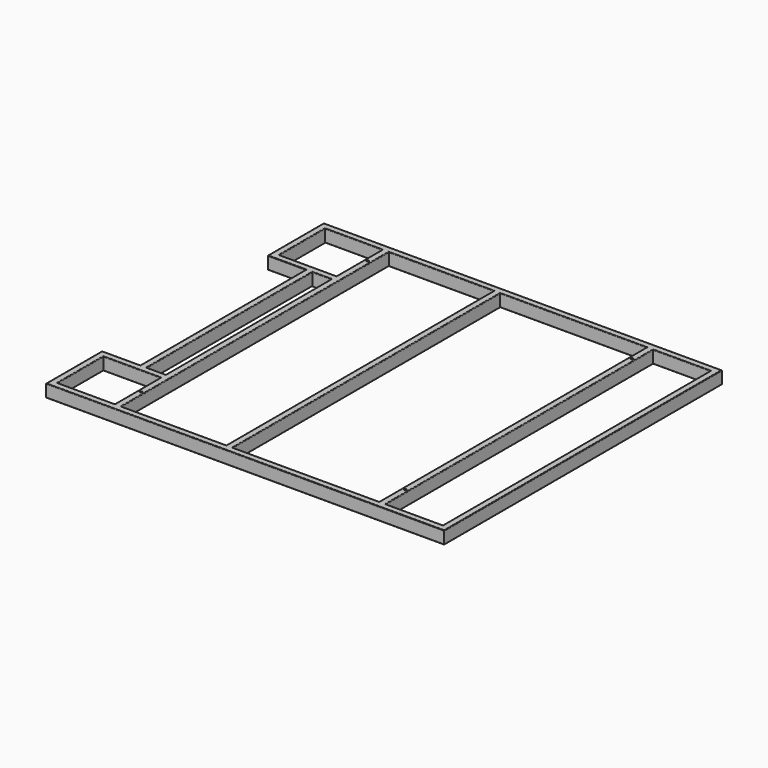
from build123d import *

# Parameters (mm, degrees)
F0_W     = 228.6
F0_H     = 228.6
F0_W_2   = 76.2
F0_H_2   = 825.5
F0_W_3   = 419.1
F0_H_3   = 1333.5
F0_W_4   = 584.2
F1_DEPTH = 25.4
F2_R     = 2.3622
F3_R     = 2.3622
F5_D     = 8.73125


with BuildPart() as f1:
    # F0 (on Top) → F1 (new body, symmetric)
    with BuildSketch(Plane.XY):
        Polygon((-927.9385305348, -419.3321948051), (-927.9385305348, -698.7321948051), (659.5614694652, -698.7321948051), (659.5614694652, 685.5678051949), (-927.9385305348, 685.5678051949), (-927.9385305348, 406.1678051949), (-775.5385305348, 406.1678051949), (-775.5385305348, -419.3321948051), align=None)
        with Locations((-788.2385305348, -559.0321948051)):
            Rectangle(F0_W, F0_H, mode=Mode.SUBTRACT)
        with Locations((-712.0385305348, -6.5821948051)):
            Rectangle(F0_W_2, F0_H_2, mode=Mode.SUBTRACT)
        with Locations((-438.9885305348, -6.5821948051)):
            Rectangle(F0_W_3, F0_H_3, mode=Mode.SUBTRACT)
        with Locations((-788.2385305348, 545.8678051949)):
            Rectangle(F0_W, F0_H, mode=Mode.SUBTRACT)
        with Locations((88.0614694652, -6.5821948051)):
            Rectangle(F0_W_4, F0_H_3, mode=Mode.SUBTRACT)
        with Locations((519.8614694652, -6.5821948051)):
            Rectangle(F0_W, F0_H_3, mode=Mode.SUBTRACT)
    extrude(amount=F1_DEPTH, both=True)

    # F2
    f2_edges = [f1.edges().sort_by_distance(p)[0] for p in [
        (-927.938531, 545.867805, 25.4),
        (-851.738531, 406.167805, 25.4),
        (-775.538531, -6.582195, 25.4),
        (-134.188531, 685.567805, 25.4),
        (659.561469, -6.582195, 25.4),
        (-134.188531, -698.732195, 25.4),
        (-927.938531, -559.032195, 25.4),
        (-851.738531, -419.332195, 25.4),
        (-712.038531, -419.332195, 25.4),
        (-750.138531, -6.582195, 25.4),
        (-788.238531, -444.732195, 25.4),
        (-673.938531, -559.032195, 25.4),
        (-902.538531, -559.032195, 25.4),
        (-788.238531, -673.332195, 25.4),
        (-438.988531, -673.332195, 25.4),
        (-648.538531, -6.582195, 25.4),
        (-229.438531, -6.582195, 25.4),
        (88.061469, -673.332195, 25.4),
        (380.161469, -6.582195, 25.4),
        (519.861469, -673.332195, 25.4),
        (634.161469, -6.582195, 25.4),
        (-204.038531, -6.582195, 25.4),
        (405.561469, -6.582195, 25.4),
        (-902.538531, 545.867805, 25.4),
        (-788.238531, 431.567805, 25.4),
        (-788.238531, 660.167805, 25.4),
        (-438.988531, 660.167805, 25.4),
        (-712.038531, 406.167805, 25.4),
        (-673.938531, -6.582195, 25.4),
        (-673.938531, 545.867805, 25.4),
        (88.061469, 660.167805, 25.4),
        (519.861469, 660.167805, 25.4),
    ]]
    fillet(f2_edges, radius=F2_R)

    # F3
    f3_edges = [f1.edges().sort_by_distance(p)[0] for p in [
        (-927.938531, -559.032195, -25.4),
        (-851.738531, -419.332195, -25.4),
        (-902.538531, -559.032195, -25.4),
        (-673.938531, -559.032195, -25.4),
        (-788.238531, -673.332195, -25.4),
        (-134.188531, -698.732195, -25.4),
        (-438.988531, -673.332195, -25.4),
        (-648.538531, -6.582195, -25.4),
        (-229.438531, -6.582195, -25.4),
        (-204.038531, -6.582195, -25.4),
        (-788.238531, -444.732195, -25.4),
        (88.061469, -673.332195, -25.4),
        (380.161469, -6.582195, -25.4),
        (405.561469, -6.582195, -25.4),
        (519.861469, -673.332195, -25.4),
        (634.161469, -6.582195, -25.4),
        (519.861469, 660.167805, -25.4),
        (88.061469, 660.167805, -25.4),
        (-438.988531, 660.167805, -25.4),
        (-788.238531, 660.167805, -25.4),
        (-927.938531, 545.867805, -25.4),
        (-851.738531, 406.167805, -25.4),
        (-788.238531, 431.567805, -25.4),
        (-673.938531, 545.867805, -25.4),
        (-673.938531, -6.582195, -25.4),
        (-775.538531, -6.582195, -25.4),
        (-750.138531, -6.582195, -25.4),
        (659.561469, -6.582195, -25.4),
        (-712.038531, -419.332195, -25.4),
        (-134.188531, 685.567805, -25.4),
    ]]
    fillet(f3_edges, radius=F3_R)

    # F5 (through all)
    with Locations(Plane(origin=(0, 0, -25.4), x_dir=(1, 0, 0), z_dir=(0, 0, -1))):
        with Locations((-661.2385305348, -571.2678051949), (-661.2385305348, 559.0321948051), (392.8614694652, 559.0321948051), (392.8614694652, -571.2678051949)):
            Hole(F5_D / 2)


solid = f1.part
